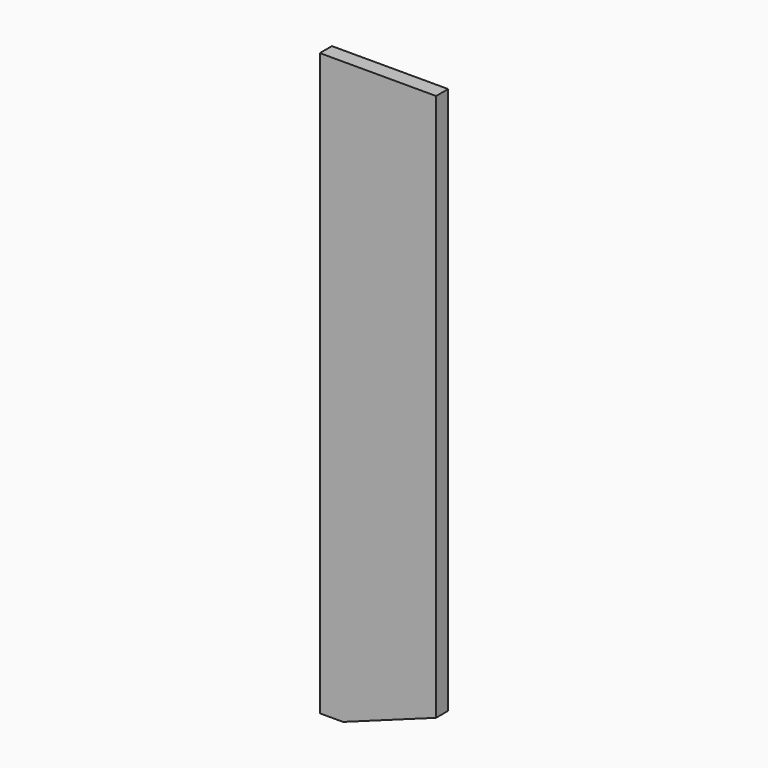
from build123d import *

# Parameters (mm, degrees)
PAD_DEPTH     = 6.5
CHAMFER_ANGLE = 20
CHAMFER_SIZE  = 80


with BuildPart() as part:
    # Sketch → Pad (new body, symmetric)
    with BuildSketch(Plane.XZ):
        Polygon((0, 0), (100, 0), (100, 500), (0, 500), (0, 1), align=None)
    extrude(amount=PAD_DEPTH, both=True)

    # Chamfer
    chamfer_edges = [part.edges().sort_by_distance(p)[0] for p in [
        (100, 0, 0),
    ]]
    chamfer_side = part.faces().sort_by_distance((50, 0, 0))[0]
    chamfer(chamfer_edges, length=CHAMFER_SIZE, angle=CHAMFER_ANGLE, reference=chamfer_side)


solid = part.part
